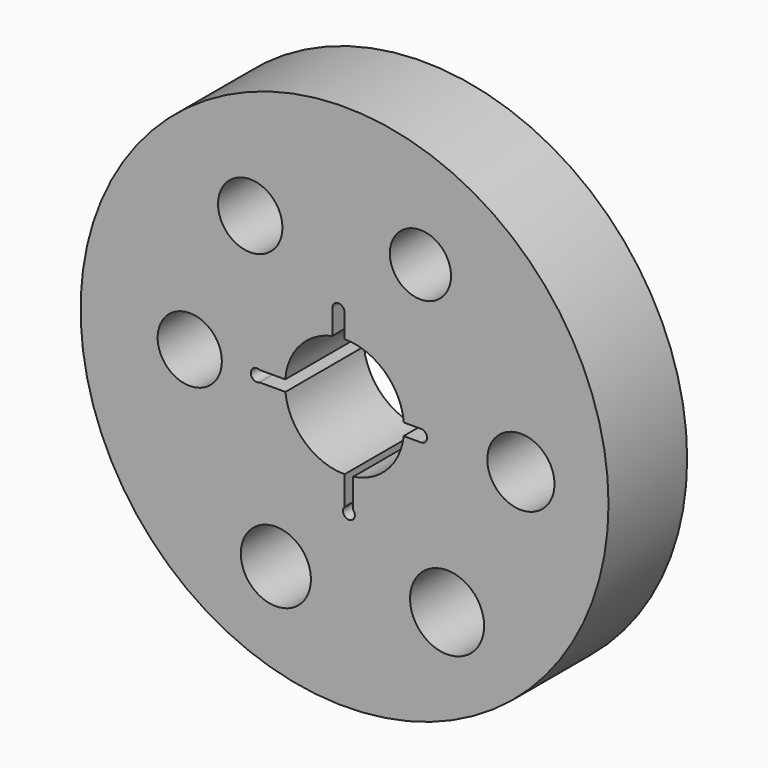
from build123d import *

# Parameters (mm, degrees)
F0_R     = 68.2142
F0_R_2   = 9.06213
F0_R_3   = 9.570677
F0_R_4   = 8.295327
F0_R_5   = 8.314873
F0_R_6   = 15.377147
F0_R_7   = 8.676921
F0_R_8   = 7.903736
F1_DEPTH = 25.4
F3_DEPTH = 25.401
F4_W     = 2.246405
F4_H     = 9.179381
F5_DEPTH = 25.401


with BuildPart() as f1:
    # F0 (on Front) → F1 (new body)
    with BuildSketch(Plane.XZ):
        Circle(F0_R)
        with Locations((-17.750563, -42.127229)):
            Circle(F0_R_2, mode=Mode.SUBTRACT)
        with Locations((26.49338, -38.153224)):
            Circle(F0_R_3, mode=Mode.SUBTRACT)
        with Locations((-40.004998, 0)):
            Circle(F0_R_4, mode=Mode.SUBTRACT)
        with Locations((-24.373908, 35.498366)):
            Circle(F0_R_5, mode=Mode.SUBTRACT)
        Circle(F0_R_6, mode=Mode.SUBTRACT)
        with Locations((45.568611, 0)):
            Circle(F0_R_7, mode=Mode.SUBTRACT)
        with Locations((19.605096, 38.677573)):
            Circle(F0_R_8, mode=Mode.SUBTRACT)
    extrude(amount=F1_DEPTH)

    # F2 (on face) → F3 (cut, through all)
    with BuildSketch(Plane.XZ.offset(25.4)):
        Polygon((-3.167718, 21.456879), (-3.167718, 15.047332), (0, 15.377147), (0, 21.456879), align=None)
        with BuildLine():
            ThreePointArc((0, 21.456879), (-1.583859, 23.040738), (-3.167718, 21.456879))
            Line((-3.167718, 21.456879), (0, 21.456879))
        make_face()
    extrude(amount=-F3_DEPTH, mode=Mode.SUBTRACT)

    # F4 (on face) → F5 (cut, through all)
    with BuildSketch(Plane.XZ.offset(25.4)):
        with BuildLine():
            Line((19.603778, 1.377483), (15.315325, 1.377483))
            Line((15.315325, 1.377483), (13.762355, 0))
            Line((13.762355, 0), (15.281475, -1.712651))
            Line((15.281475, -1.712651), (19.770676, -1.712651))
            ThreePointArc((19.770676, -1.712651), (21.317995, -0.079506), (19.603778, 1.377483))
        make_face()
        Polygon((-13.441991, 1.215727), (-13.775786, 1.215727), (-13.775786, 0), (-13.775786, -1.621536), align=None)
        Polygon((-13.775786, 0), (-13.775786, 1.215727), (-21.95378, 1.215727), (-21.95378, -1.621536), (-13.775786, -1.621536), align=None)
        with BuildLine():
            Line((-21.95378, -1.621536), (-21.95378, 1.215727))
            ThreePointArc((-21.95378, 1.215727), (-24.235262, -0.202904), (-21.95378, -1.621536))
        make_face()
        with Locations((1.123202, -18.22787)):
            Rectangle(F4_W, F4_H)
        with BuildLine():
            Line((2.246405, -22.81756), (0, -22.81756))
            ThreePointArc((0, -22.81756), (1.123202, -25.390364), (2.246405, -22.81756))
        make_face()
    extrude(amount=-F5_DEPTH, mode=Mode.SUBTRACT)


solid = f1.part
